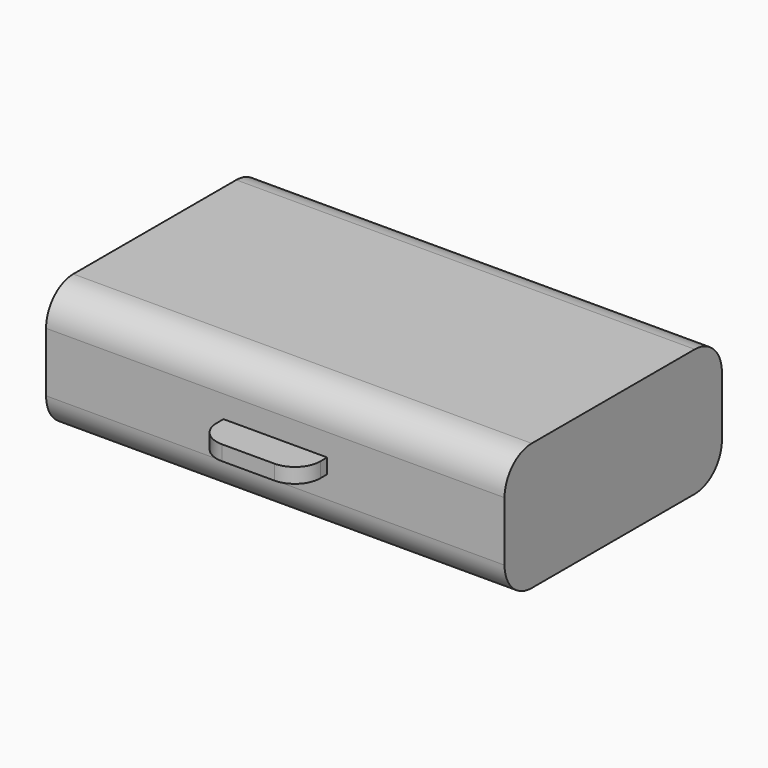
from build123d import *

# Parameters (mm, degrees)
F0_W     = 5.4
F0_H     = 3.2
F1_DEPTH = 1.5
F2_R     = 0.4
F3_W     = 1.22033
F3_H     = 0.175384
F4_DEPTH = 0.4
F5_R     = 0.3


with BuildPart() as f1:
    # F0 (on Top) → F1 (new body)
    with BuildSketch(Plane.XY):
        Rectangle(F0_W, F0_H)
    extrude(amount=F1_DEPTH)

    # F2
    f2_edges = [f1.edges().sort_by_distance(p)[0] for p in [
        (0, -1.6, 1.5),
        (0, -1.6, 0),
        (0, 1.6, 1.5),
        (0, 1.6, 0),
    ]]
    fillet(f2_edges, radius=F2_R)

    # F3 (on face) → F4 (join)
    with BuildSketch(Plane.XZ.offset(1.6)):
        with Locations((0, 0.75)):
            Rectangle(F3_W, F3_H)
    extrude(amount=F4_DEPTH)

    # F5
    f5_edges = [f1.edges().sort_by_distance(p)[0] for p in [
        (-0.610165, -2, 0.75),
        (0.610165, -2, 0.75),
    ]]
    fillet(f5_edges, radius=F5_R)


solid = f1.part
